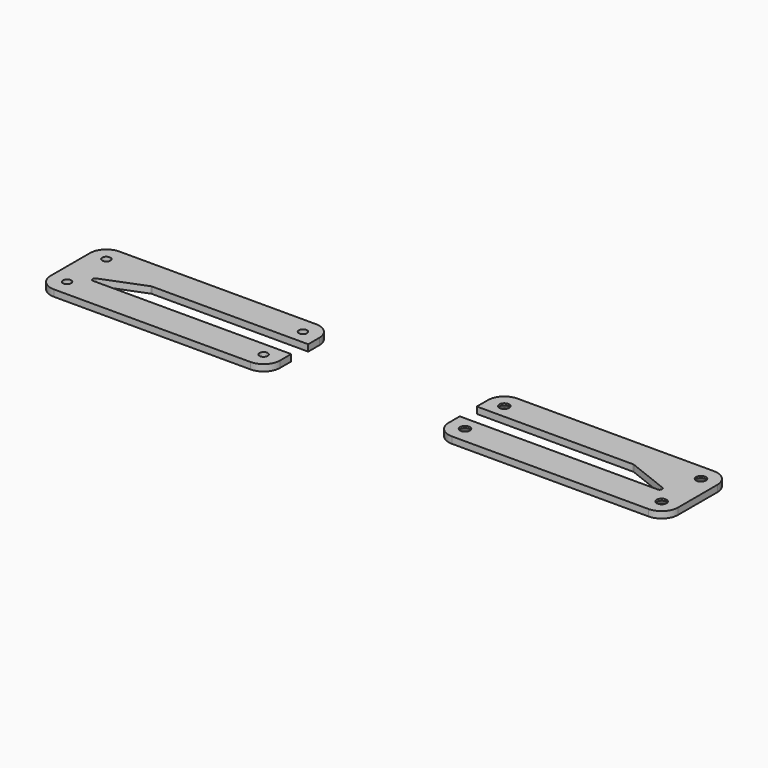
from build123d import *

# Parameters (mm, degrees)
F1_DEPTH       = 2
F2_R           = 5
F3_D           = 2.5
F4_D           = 3
F4_CSINK_D     = 5
F4_CSINK_ANGLE = 70


with BuildPart() as f1:
    # F0 (on Top) → F1 (new body)
    with BuildSketch(Plane.XY):
        with BuildLine():
            Line((-35, -7.5), (-35, -12.5))
            Line((-35, -12.5), (30, -12.5))
            Line((30, -12.5), (35, -12.5))
            Line((35, -12.5), (35, -3.25))
            Line((35, -3.25), (25.4, -3.25))
            Line((25.4, -3.25), (-25.4, -3.25))
            ThreePointArc((-25.4, -3.25), (-26.13685, -2.639826), (-25.674749, -1.802137))
            Line((-25.674749, -1.802137), (-12.974749, 3.197863))
            ThreePointArc((-12.974749, 3.197863), (-12.839826, 3.23685), (-12.7, 3.25))
            Line((-12.7, 3.25), (12.7, 3.25))
            Line((12.7, 3.25), (35, 3.25))
            Line((35, 3.25), (35, 12.5))
            Line((35, 12.5), (-30, 12.5))
            Line((-30, 12.5), (-35, 12.5))
            Line((-35, 12.5), (-35, 7.5))
            Line((-35, 7.5), (-35, -7.5))
        make_face()
        with BuildLine():
            Line((86.447124, 3.25), (108.747124, 3.25))
            Line((108.747124, 3.25), (134.147124, 3.25))
            ThreePointArc((134.147124, 3.25), (134.28695, 3.23685), (134.421873, 3.197863))
            Line((134.421873, 3.197863), (147.121873, -1.802137))
            ThreePointArc((147.121873, -1.802137), (147.583974, -2.639826), (146.847124, -3.25))
            Line((146.847124, -3.25), (96.047124, -3.25))
            Line((96.047124, -3.25), (86.447124, -3.25))
            Line((86.447124, -3.25), (86.447124, -12.5))
            Line((86.447124, -12.5), (91.447124, -12.5))
            Line((91.447124, -12.5), (156.447124, -12.5))
            Line((156.447124, -12.5), (156.447124, -7.5))
            Line((156.447124, -7.5), (156.447124, 7.5))
            Line((156.447124, 7.5), (156.447124, 12.5))
            Line((156.447124, 12.5), (151.447124, 12.5))
            Line((151.447124, 12.5), (86.447124, 12.5))
            Line((86.447124, 12.5), (86.447124, 3.25))
        make_face()
    extrude(amount=F1_DEPTH)

    # F2
    f2_edges = [f1.edges().sort_by_distance(p)[0] for p in [
        (-35, 12.5, 1),
        (35, 12.5, 1),
        (-35, -12.5, 1),
        (35, -12.5, 1),
        (86.447124, 12.5, 1),
        (156.447124, 12.5, 1),
        (86.447124, -12.5, 1),
        (156.447124, -12.5, 1),
    ]]
    fillet(f2_edges, radius=F2_R)

    # F3 (through all)
    with Locations(Plane(origin=(0, 0, 0), x_dir=(1, 0, 0), z_dir=(0, 0, -1))):
        with Locations((-30, 7.5), (-30, -7.5), (30, -7.5), (30, 7.5)):
            Hole(F3_D / 2)

    # F4 (through all)
    with Locations(Plane(origin=(0, 0, 0), x_dir=(1, 0, 0), z_dir=(0, 0, -1))):
        with Locations((91.447124, 7.5), (151.447124, 7.5), (151.447124, -7.5), (91.447124, -7.5)):
            CounterSinkHole(F4_D / 2, F4_CSINK_D / 2, counter_sink_angle=F4_CSINK_ANGLE)


solid = f1.part
